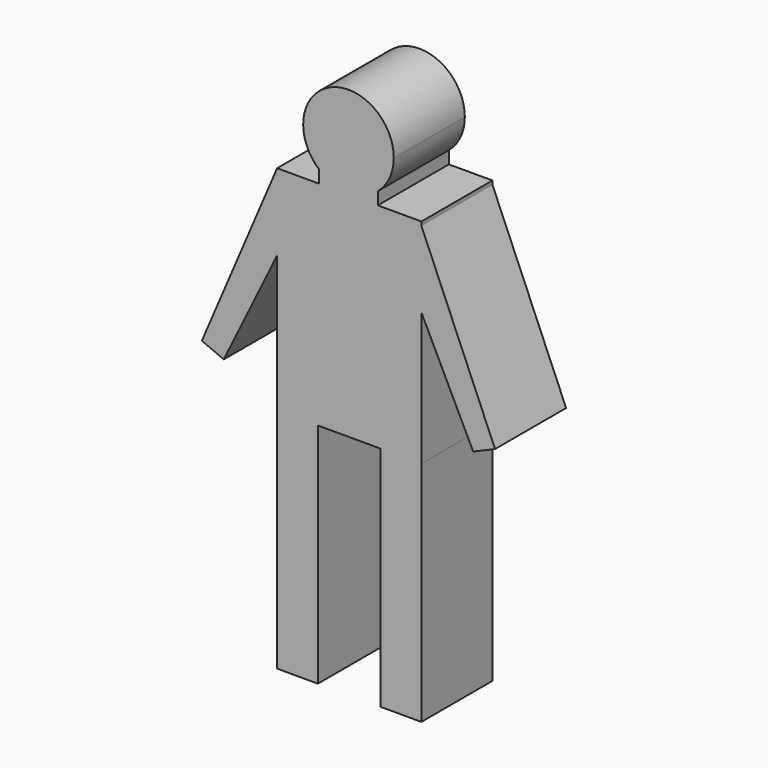
from build123d import *

# Parameters (mm, degrees)
F0_W     = 137.6885
F0_H     = 767.878158
F0_W_2   = 137.688477
F1_DEPTH = 300


with BuildPart() as f1:
    # F0 (on Front) → F1 (new body)
    with BuildSketch(Plane.XZ):
        with BuildLine():
            ThreePointArc((99.072557, 638.003026), (138.889786, 690.38215), (153.033681, 754.638938))
            ThreePointArc((153.033681, 754.638938), (-64.256788, 893.528724), (-99.072557, 638.003026))
            ThreePointArc((-99.072557, 638.003026), (0, 601.605257), (99.072557, 638.003026))
        make_face()
        with BuildLine():
            ThreePointArc((99.072557, 638.003026), (0, 601.605257), (-99.072557, 638.003026))
            Line((-99.072557, 638.003026), (-99.072557, 595.767571))
            Line((-99.072557, 595.767571), (99.072557, 595.767571))
            Line((99.072557, 595.767571), (99.072557, 638.003026))
        make_face()
        Polygon((99.072557, 595.767571), (-99.072557, 595.767571), (-240.954866, 595.767571), (-240.954866, 336.277686), (-240.954866, -124.449223), (-103.266366, -124.449223), (108.562108, -124.449223), (246.250585, -124.449223), (246.250585, 325.474737), (246.250585, 583.355728), (240.954866, 595.767571), align=None)
        Polygon((-240.954866, 336.277686), (-240.954866, 595.767571), (-495.149031, 0), (-421.25678, -31.52736), align=None)
        Polygon((246.250585, 595.767571), (240.954866, 595.767571), (246.250585, 583.355728), align=None)
        Polygon((495.149031, 0), (246.250585, 583.355728), (246.250585, 325.474737), (421.25678, -31.52736), align=None)
        with Locations((-172.110616, -508.388302)):
            Rectangle(F0_W, F0_H)
        with Locations((177.406346, -508.388302)):
            Rectangle(F0_W_2, F0_H)
    extrude(amount=F1_DEPTH)


solid = f1.part
